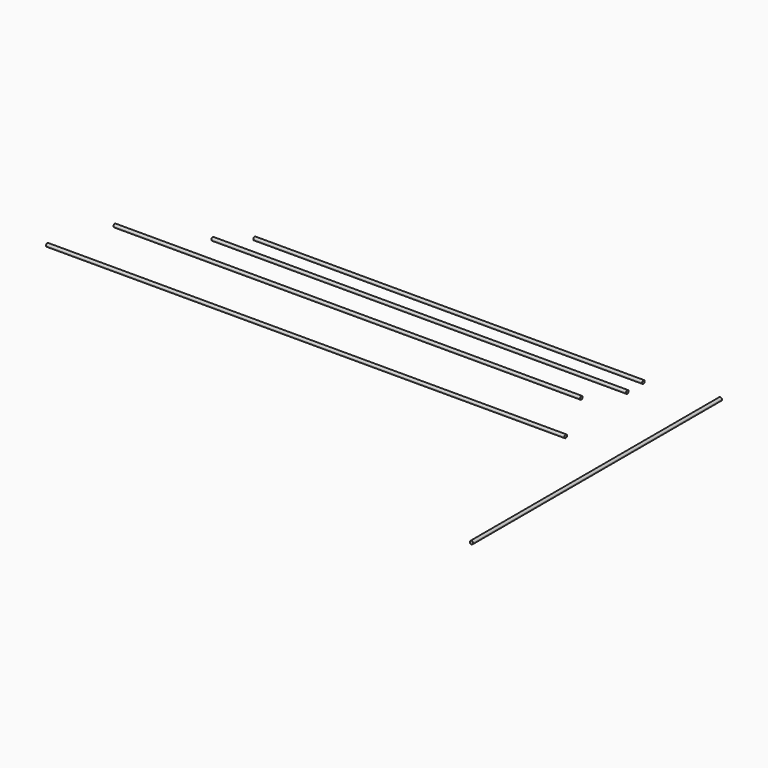
from build123d import *

# Parameters (mm, degrees)
F0_W = 1016
F0_H = 3.175
F2_W = 914.4
F2_H = 3.175
F3_W = 812.8
F3_H = 3.175
F4_W = 762
F4_H = 3.175
F8_W = 3.175
F8_H = 609.6
F9_W = 3.175
F9_H = 914.4


with BuildPart() as f1:
    # F0 (on Top) → F1 (revolve)
    with BuildSketch(Plane.XY):
        with Locations((16.585609, -34.669704)):
            Rectangle(F0_W, F0_H)
    revolve(axis=Axis((16.585609, -36.257204, 0), (1, 0, 0)))


with BuildPart() as f5:
    # F2 (on Top) → F5 (revolve)
    with BuildSketch(Plane.XY):
        with Locations((6.258547, 76.737433)):
            Rectangle(F2_W, F2_H)
    revolve(axis=Axis((6.258547, 78.324933, 0), (1, 0, 0)))


with BuildPart() as f6:
    # F3 (on Top) → F6 (revolve)
    with BuildSketch(Plane.XY):
        with Locations((99.952236, 135.788546)):
            Rectangle(F3_W, F3_H)
    revolve(axis=Axis((99.952236, 137.376046, 0), (1, 0, 0)))


with BuildPart() as f7:
    # F4 (on Top) → F7 (revolve)
    with BuildSketch(Plane.XY):
        with Locations((124.057755, 176.901974)):
            Rectangle(F4_W, F4_H)
    revolve(axis=Axis((124.057755, 178.489474, 0), (1, 0, 0)))


with BuildPart() as f10:
    # F8 (on Top) → F10 (revolve)
    with BuildSketch(Plane.XY):
        with Locations((630.296361, -96.494183)):
            Rectangle(F8_W, F8_H)
    revolve(axis=Axis((631.883861, -96.494183, 0), (0, -1, 0)))


with BuildPart() as f11:
    # F9 (on Top) → F11 (revolve)
    with BuildSketch(Plane.XY):
        with Locations((711.808065, -68.618268)):
            Rectangle(F9_W, F9_H)
    revolve(axis=Axis((713.395565, -68.618268, 0), (0, -1, 0)))


solid = Compound([f1.part, f5.part, f6.part, f7.part, f10.part])
